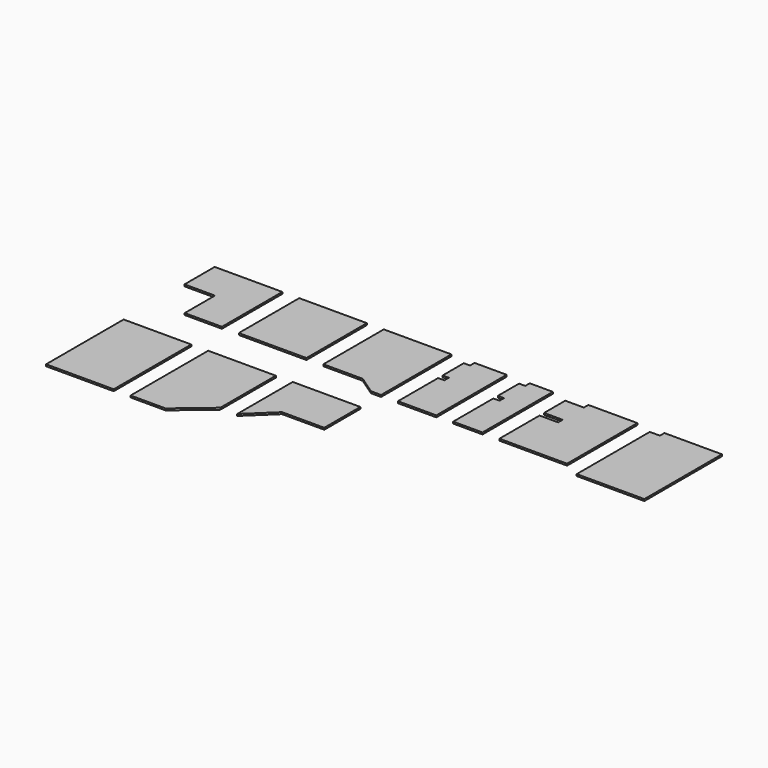
from build123d import *

# Parameters (mm, degrees)
F0_W     = 1200
F0_H     = 1340
F0_H_2   = 1720
F1_DEPTH = 32


with BuildPart() as f1:
    # F0 (on Top) → F1 (new body)
    with BuildSketch(Plane.XY):
        Polygon((439.463177, 1104.30584), (-760.536823, 1104.30584), (-760.536823, 434.30584), (-220.536823, 434.30584), (-220.536823, -235.69416), (439.463177, -235.69416), align=None)
        with Locations((1339.463177, 434.30584)):
            Rectangle(F0_W, F0_H)
        Polygon((3439.463177, 1104.30584), (2239.463177, 1104.30584), (2239.463177, -235.69416), (2939.463177, -235.69416), (3259.463177, -455.69416), (3439.463177, -455.69416), align=None)
        Polygon((4419.463177, 1104.30584), (3849.463177, 1104.30584), (3849.463177, 1004.30584), (3739.463177, 1004.30584), (3739.463177, 534.30584), (3849.463177, 534.30584), (3849.463177, 434.30584), (3739.463177, 434.30584), (3739.463177, -455.69416), (4419.463177, -455.69416), align=None)
        Polygon((4829.463177, 1004.30584), (4719.463177, 1004.30584), (4719.463177, 534.30584), (4829.463177, 534.30584), (4829.463177, 434.30584), (4719.463177, 434.30584), (4719.463177, -455.69416), (5239.463177, -455.69416), (5239.463177, 1104.30584), (4829.463177, 1104.30584), align=None)
        Polygon((5869.463177, 1004.30584), (5539.463177, 1004.30584), (5539.463177, 534.30584), (5869.463177, 534.30584), (5869.463177, 434.30584), (5539.463177, 434.30584), (5539.463177, -455.69416), (6739.463177, -455.69416), (6739.463177, 1104.30584), (5869.463177, 1104.30584), align=None)
        Polygon((7219.463177, 1004.30584), (7039.463177, 1004.30584), (7039.463177, 407.840582), (7039.463177, 307.840582), (7039.463177, -615.69416), (8239.463177, -615.69416), (8239.463177, 1104.30584), (7219.463177, 1104.30584), align=None)
        with Locations((-160.536823, -1775.69416)):
            Rectangle(F0_W, F0_H_2)
        Polygon((1939.463177, -915.69416), (739.463177, -915.69416), (739.463177, -2635.69416), (1359.463177, -2635.69416), (1939.463177, -2145.69416), align=None)
        Polygon((3439.463177, -915.69416), (2239.463177, -915.69416), (2239.463177, -2145.69416), (2689.463177, -1715.69416), (3439.463177, -1715.69416), align=None)
    extrude(amount=F1_DEPTH)


solid = f1.part
